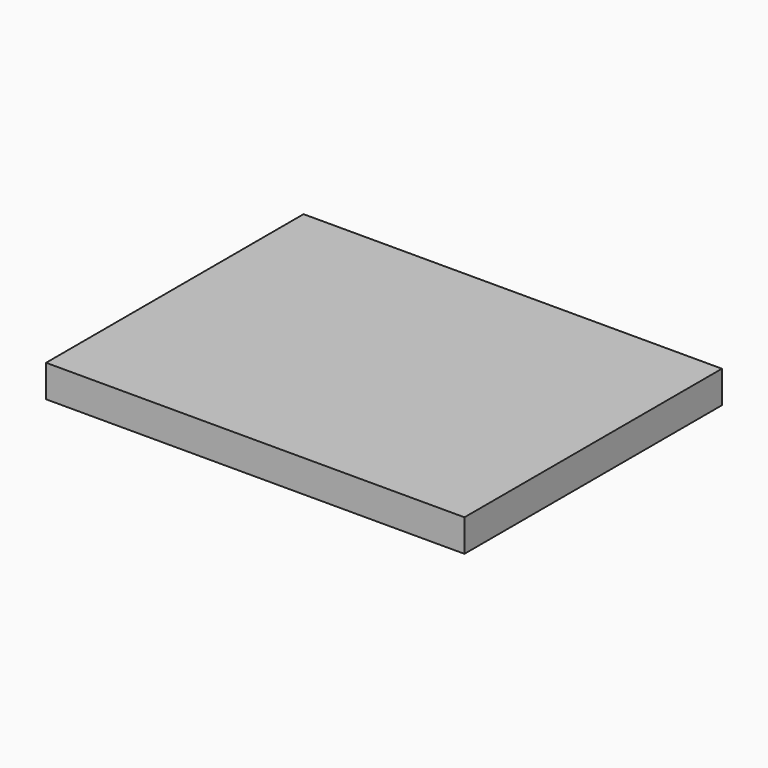
from build123d import *

# Parameters (mm, degrees)
F0_W     = 104
F0_H     = 80
F1_DEPTH = 8
F2_R     = 8
F3_DEPTH = 2


with BuildPart() as f1:
    # F0 (on Top) → F1 (new body)
    with BuildSketch(Plane.XY):
        Rectangle(F0_W, F0_H)
    extrude(amount=F1_DEPTH)

    # F2 (on face) → F3 (cut)
    with BuildSketch(Plane(origin=(0, 0, 0), x_dir=(1, 0, 0), z_dir=(0, 0, -1))):
        with Locations((20, 20)):
            Circle(F2_R)
        with Locations((-20, 20)):
            Circle(F2_R)
    extrude(amount=-F3_DEPTH, mode=Mode.SUBTRACT)


solid = f1.part
